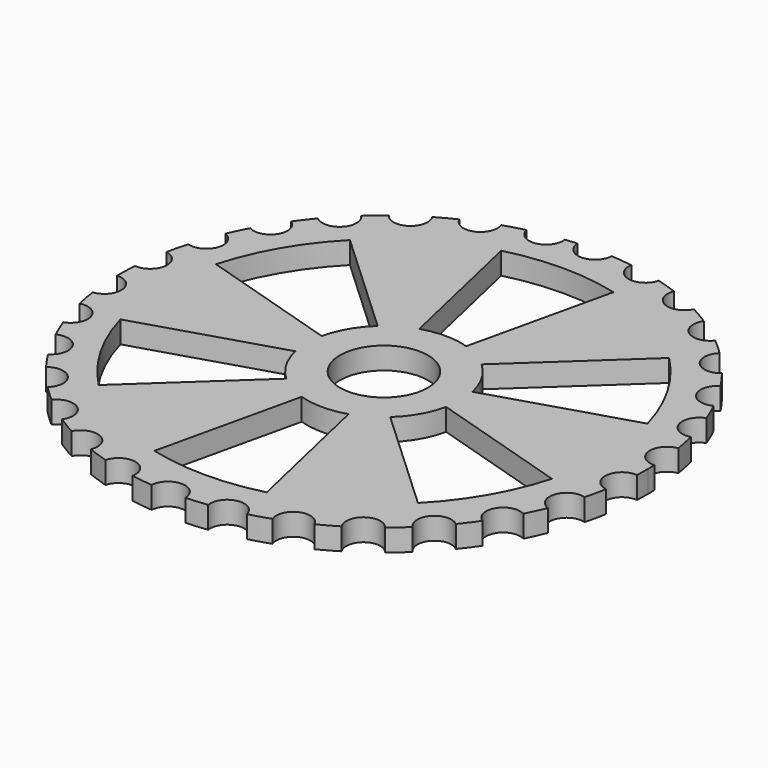
from build123d import *

# Parameters (mm, degrees)
F0_R     = 25.4
F1_DEPTH = 12.7
F3_DEPTH = 25.4


with BuildPart() as f1:
    # F0 (on Top) → F1 (new body)
    with BuildSketch(Plane.XY):
        with BuildLine():
            ThreePointArc((152.210637, -7.594865), (152.352652, -3.798613), (152.4, 0))
            ThreePointArc((152.4, 0), (152.380736, 2.423103), (152.322947, 4.845593))
            ThreePointArc((152.322947, 4.845593), (141.912408, 13.707712), (150.434272, 24.398564))
            ThreePointArc((150.434272, 24.398564), (149.313035, 30.518479), (147.942937, 36.587529))
            ThreePointArc((147.942937, 36.587529), (135.909535, 43.077036), (142.007699, 55.313412))
            ThreePointArc((142.007699, 55.313412), (139.631639, 61.063618), (137.022854, 66.712049))
            ThreePointArc((137.022854, 66.712049), (123.898547, 70.542066), (127.30343, 83.783034))
            ThreePointArc((127.30343, 83.783034), (123.777584, 88.909334), (120.045438, 93.887448))
            ThreePointArc((120.045438, 93.887448), (106.410408, 94.888661), (106.971492, 108.548883))
            ThreePointArc((106.971492, 108.548883), (102.451727, 112.824659), (97.761205, 116.912389))
            ThreePointArc((97.761205, 116.912389), (84.218213, 115.040539), (81.910694, 128.51614))
            ThreePointArc((81.910694, 128.51614), (76.596814, 131.752374), (71.155269, 134.769016))
            ThreePointArc((71.155269, 134.769016), (58.303006, 130.10685), (53.228892, 142.802119))
            ThreePointArc((53.228892, 142.802119), (47.355806, 144.855748), (41.403792, 146.667945))
            ThreePointArc((41.403792, 146.667945), (29.810413, 139.421563), (22.194015, 150.775282))
            ThreePointArc((22.194015, 150.775282), (16.021353, 151.555522), (9.821987, 152.083163))
            ThreePointArc((9.821987, 152.083163), (0, 142.572904), (-9.821987, 152.083163))
            ThreePointArc((-9.821987, 152.083163), (-13.282535, 151.820072), (-16.736195, 151.478249))
            ThreePointArc((-16.736195, 151.478249), (-16.661745, 150.783242), (-16.636886, 150.084702))
            ThreePointArc((-16.636886, 150.084702), (-25.44977, 140.310082), (-36.081733, 148.067108))
            ThreePointArc((-36.081733, 148.067108), (-42.095292, 146.470974), (-48.038691, 144.630717))
            ThreePointArc((-48.038691, 144.630717), (-47.5856, 142.959149), (-47.43299, 141.233999))
            ThreePointArc((-47.43299, 141.233999), (-55.223917, 131.620163), (-66.243396, 137.250036))
            ThreePointArc((-66.243396, 137.250036), (-71.790301, 134.431814), (-77.217553, 131.389533))
            ThreePointArc((-77.217553, 131.389533), (-76.085391, 128.872443), (-75.697812, 126.139803))
            ThreePointArc((-75.697812, 126.139803), (-82.489349, 116.793296), (-93.476655, 120.365589))
            ThreePointArc((-93.476655, 120.365589), (-98.311696, 116.449862), (-102.98288, 112.340048))
            ThreePointArc((-102.98288, 112.340048), (-100.909017, 109.179225), (-100.181858, 105.469379))
            ThreePointArc((-100.181858, 105.469379), (-106.007645, 96.493782), (-116.577616, 98.160172))
            ThreePointArc((-116.577616, 98.160172), (-120.487052, 93.320043), (-124.19567, 88.324377))
            ThreePointArc((-124.19567, 88.324377), (-120.970356, 84.782436), (-119.802768, 80.136498))
            ThreePointArc((-119.802768, 80.136498), (-124.707149, 71.631282), (-134.525062, 71.615415))
            ThreePointArc((-134.525062, 71.615415), (-137.336068, 66.064849), (-139.918176, 60.404173))
            ThreePointArc((-139.918176, 60.404173), (-135.39715, 56.791586), (-133.693165, 51.261044))
            ThreePointArc((-133.693165, 51.261044), (-137.730696, 43.320467), (-146.525595, 41.904774))
            ThreePointArc((-146.525595, 41.904774), (-148.113906, 35.889145), (-149.455356, 29.813698))
            ThreePointArc((-149.455356, 29.813698), (-143.569406, 26.473362), (-141.239, 20.119508))
            ThreePointArc((-141.239, 20.119508), (-144.473844, 12.83157), (-152.048709, 10.341661))
            ThreePointArc((-152.048709, 10.341661), (-152.344113, 4.126898), (-152.385603, -2.094742))
            ThreePointArc((-152.385603, -2.094742), (-145.146605, -4.804697), (-142.106697, -11.911447))
            ThreePointArc((-142.106697, -11.911447), (-144.611911, -18.465977), (-150.850248, -21.678624))
            ThreePointArc((-150.850248, -21.678624), (-149.839684, -27.817785), (-148.579381, -33.910582))
            ThreePointArc((-148.579381, -33.910582), (-140.082526, -35.634948), (-136.257897, -43.415835))
            ThreePointArc((-136.257897, -43.415835), (-138.114625, -49.164318), (-142.98319, -52.740568))
            ThreePointArc((-142.98319, -52.740568), (-140.711332, -58.532735), (-138.20495, -64.227345))
            ThreePointArc((-138.20495, -64.227345), (-128.627028, -64.632158), (-123.951157, -73.000952))
            ThreePointArc((-123.951157, -73.000952), (-125.24773, -77.87968), (-128.795312, -81.471023))
            ThreePointArc((-128.795312, -81.471023), (-125.362592, -86.660144), (-121.72093, -91.704827))
            ThreePointArc((-121.72093, -91.704827), (-111.314719, -90.494981), (-105.730518, -99.358934))
            ThreePointArc((-105.730518, -99.358934), (-106.561474, -103.31384), (-108.913814, -106.599911))
            ThreePointArc((-108.913814, -106.599911), (-104.471982, -110.956591), (-99.856025, -115.128338))
            ThreePointArc((-99.856025, -115.128338), (-88.941006, -112.063704), (-82.401454, -121.324583))
            ThreePointArc((-82.401454, -121.324583), (-82.866492, -124.311837), (-84.217593, -127.016365))
            ThreePointArc((-84.217593, -127.016365), (-78.963006, -130.34801), (-73.576812, -133.462402))
            ThreePointArc((-73.576812, -133.462402), (-62.526605, -128.371697), (-54.995268, -137.926869))
            ThreePointArc((-54.995268, -137.926869), (-55.198142, -139.913365), (-55.798387, -141.817841))
            ThreePointArc((-55.798387, -141.817841), (-49.963335, -143.977169), (-44.045008, -145.896529))
            ThreePointArc((-44.045008, -145.896529), (-33.272061, -138.688287), (-24.723496, -148.431858))
            ThreePointArc((-24.723496, -148.431858), (-24.770866, -149.395581), (-24.912517, -150.350013))
            ThreePointArc((-24.912517, -150.350013), (-18.754947, -151.241568), (-12.566119, -151.881048))
            ThreePointArc((-12.566119, -151.881048), (-2.574032, -142.549666), (7.074654, -152.235703))
            ThreePointArc((7.074654, -152.235703), (13.282535, -151.820072), (19.468278, -151.151401))
            ThreePointArc((19.468278, -151.151401), (27.288417, -139.93704), (38.749078, -147.39155))
            ThreePointArc((38.749078, -147.39155), (44.73284, -145.687107), (50.642046, -143.739846))
            ThreePointArc((50.642046, -143.739846), (55.944534, -131.138255), (68.710532, -136.031698))
            ThreePointArc((68.710532, -136.031698), (74.205652, -133.11379), (79.577094, -129.974021))
            ThreePointArc((79.577094, -129.974021), (82.127527, -116.542276), (95.634518, -118.658329))
            ThreePointArc((95.634518, -118.658329), (100.398075, -114.655948), (104.994299, -110.46247))
            ThreePointArc((104.994299, -110.46247), (104.67993, -96.794345), (118.330814, -96.039463))
            ThreePointArc((118.330814, -96.039463), (122.152227, -91.129542), (125.770049, -86.067734))
            ThreePointArc((125.770049, -86.067734), (122.604775, -72.767451), (135.796091, -69.175007))
            ThreePointArc((135.796091, -69.175007), (138.506429, -63.574596), (140.985916, -57.868224))
            ThreePointArc((140.985916, -57.868224), (135.109664, -45.523746), (147.258268, -39.252549))
            ThreePointArc((147.258268, -39.252549), (148.737713, -33.209225), (149.969257, -27.11055))
            ThreePointArc((149.969257, -27.11055), (141.641797, -16.267586), (152.210637, -7.594865))
        make_face()
        Circle(F0_R, mode=Mode.SUBTRACT)
    extrude(amount=F1_DEPTH)

    # F2 (on face) → F3 (cut)
    with BuildSketch(Plane.XY.offset(12.7)):
        with BuildLine():
            ThreePointArc((-43.530755, 9.495775), (-38.58526, 22.27721), (-29.98896, 32.950852))
            Line((-29.98896, 32.950852), (-92.160495, 90.647766))
            ThreePointArc((-92.160495, 90.647766), (-111.950573, 64.634693), (-124.583516, 34.489447))
            Line((-124.583516, 34.489447), (-43.530755, 9.495775))
        make_face()
        with BuildLine():
            Line((13.541795, 42.446627), (32.423021, 125.137213))
            ThreePointArc((32.423021, 125.137213), (0, 129.269387), (-32.423021, 125.137213))
            Line((-32.423021, 125.137213), (-13.541795, 42.446627))
            ThreePointArc((-13.541795, 42.446627), (0, 44.554421), (13.541795, 42.446627))
        make_face()
        with BuildLine():
            ThreePointArc((29.98896, 32.950852), (38.58526, 22.27721), (43.530755, 9.495775))
            Line((43.530755, 9.495775), (124.583516, 34.489447))
            ThreePointArc((124.583516, 34.489447), (111.950573, 64.634693), (92.160495, 90.647766))
            Line((92.160495, 90.647766), (29.98896, 32.950852))
        make_face()
        with BuildLine():
            ThreePointArc((43.530755, -9.495775), (38.58526, -22.27721), (29.98896, -32.950852))
            Line((29.98896, -32.950852), (92.160495, -90.647766))
            ThreePointArc((92.160495, -90.647766), (111.950573, -64.634693), (124.583516, -34.489447))
            Line((124.583516, -34.489447), (43.530755, -9.495775))
        make_face()
        with BuildLine():
            ThreePointArc((13.541795, -42.446627), (0, -44.554421), (-13.541795, -42.446627))
            Line((-13.541795, -42.446627), (-32.423021, -125.137213))
            ThreePointArc((-32.423021, -125.137213), (0, -129.269387), (32.423021, -125.137213))
            Line((32.423021, -125.137213), (13.541795, -42.446627))
        make_face()
        with BuildLine():
            ThreePointArc((-29.98896, -32.950852), (-38.58526, -22.27721), (-43.530755, -9.495775))
            Line((-43.530755, -9.495775), (-124.583516, -34.489447))
            ThreePointArc((-124.583516, -34.489447), (-111.950573, -64.634693), (-92.160495, -90.647766))
            Line((-92.160495, -90.647766), (-29.98896, -32.950852))
        make_face()
    extrude(amount=-F3_DEPTH, mode=Mode.SUBTRACT)


solid = f1.part
